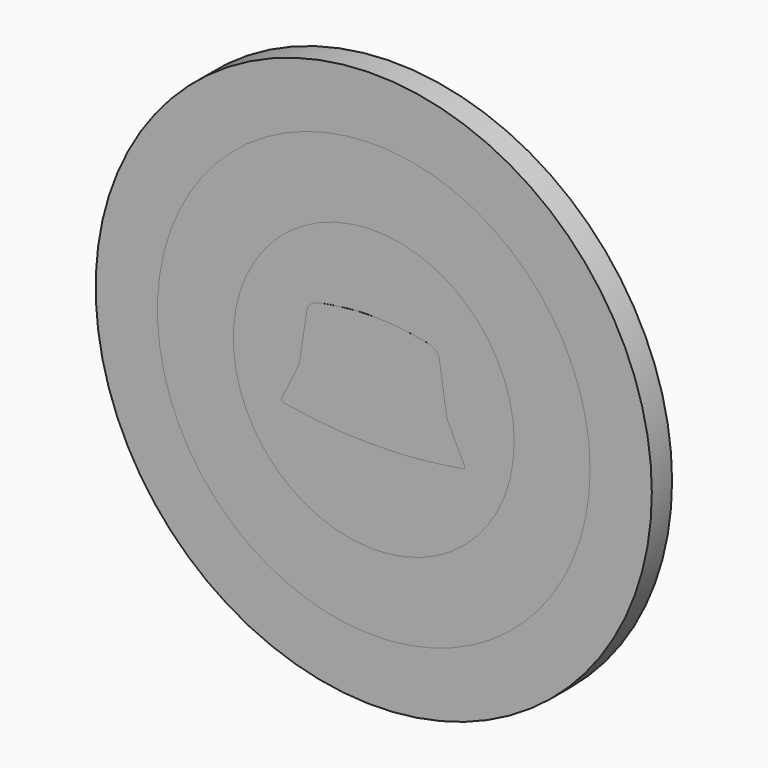
from build123d import *

# Parameters (mm, degrees)
F1_DEPTH = 5
F0_R     = 27.763995
F2_DEPTH = 5
F0_R_2   = 42.763995
F3_DEPTH = 5
F0_R_3   = 54.963995
F4_DEPTH = 5


with BuildPart() as f1:
    # F0 (on Front) → F1 (new body)
    with BuildSketch(Plane.XZ):
        with BuildLine():
            add(Edge.make_bspline(
                [(0, 12.749238871), (1.8799504391, 12.749238871), (4.6468677574, 12.621967018), (9.0016043625, 11.9592161022), (11.6822012955, 11.487029525), (13.0032659097, 10.4224192532), (13.1307793781, 9.2846127227)],
                knots=[0, 0, 0, 0, 0.2944379035, 0.5705931421, 0.7883897291, 1, 1, 1, 1], degree=3))
            add(Edge.make_bspline(
                [(0, 12.749238871), (-1.8799504391, 12.749238871), (-4.6468677574, 12.621967018), (-9.0016043625, 11.9592161022), (-11.6822012955, 11.487029525), (-13.0032659097, 10.4224192532), (-13.1307793781, 9.2846127227)],
                knots=[0, 0, 0, 0, 0.2944379035, 0.5705931421, 0.7883897291, 1, 1, 1, 1], degree=3))
            Line((-13.1307793781, 9.2846127227), (-14.6110216156, -0.3369693877))
            Line((-14.6110216156, -0.3369693877), (-18.0258862674, -7.3006520979))
            add(Edge.make_bspline(
                [(-18.0258862674, -7.3006520979), (-18.1105896685, -7.4722460504), (-18.105776428, -7.7897039819), (-17.9599132375, -7.9946665401), (-17.6592595211, -8.0481836141)],
                knots=[0, 0, 0, 0, 0.4869255089, 1, 1, 1, 1], degree=3))
            add(Edge.make_bspline(
                [(0, -9.556960276), (-2.6989814748, -9.5360273975), (-7.5647477911, -9.5064457404), (-14.5901364303, -8.531159682), (-17.6592595211, -8.0481836141)],
                knots=[0, 0, 0, 0, 0.4488909251, 0.842960095, 0.842960095, 0.842960095, 0.842960095], degree=3))
            add(Edge.make_bspline(
                [(0, -9.556960276), (2.6989814748, -9.5360273975), (7.5647477911, -9.5064457404), (14.5901364303, -8.531159682), (17.6592595211, -8.0481836141)],
                knots=[0, 0, 0, 0, 0.4488909251, 0.842960095, 0.842960095, 0.842960095, 0.842960095], degree=3))
            add(Edge.make_bspline(
                [(18.0258862674, -7.3006520979), (18.1105896685, -7.4722460504), (18.105776428, -7.7897039819), (17.9599132375, -7.9946665401), (17.6592595211, -8.0481836141)],
                knots=[0, 0, 0, 0, 0.4869255089, 1, 1, 1, 1], degree=3))
            Line((18.0258862674, -7.3006520979), (14.6110216156, -0.3369693877))
            Line((14.6110216156, -0.3369693877), (13.1307793781, 9.2846127227))
        make_face()
    extrude(amount=F1_DEPTH)


with BuildPart() as f2:
    # F0 (on Front) → F2 (new body)
    with BuildSketch(Plane.XZ):
        with Locations((0.1309880681, 0)):
            Circle(F0_R)
        with BuildLine():
            add(Edge.make_bspline(
                [(0, 12.749238871), (-1.8799504391, 12.749238871), (-4.6468677574, 12.621967018), (-9.0016043625, 11.9592161022), (-11.6822012955, 11.487029525), (-13.0032659097, 10.4224192532), (-13.1307793781, 9.2846127227)],
                knots=[0, 0, 0, 0, 0.2944379035, 0.5705931421, 0.7883897291, 1, 1, 1, 1], degree=3))
            add(Edge.make_bspline(
                [(0, 12.749238871), (1.8799504391, 12.749238871), (4.6468677574, 12.621967018), (9.0016043625, 11.9592161022), (11.6822012955, 11.487029525), (13.0032659097, 10.4224192532), (13.1307793781, 9.2846127227)],
                knots=[0, 0, 0, 0, 0.2944379035, 0.5705931421, 0.7883897291, 1, 1, 1, 1], degree=3))
            Line((13.1307793781, 9.2846127227), (14.6110216156, -0.3369693877))
            Line((14.6110216156, -0.3369693877), (18.0258862674, -7.3006520979))
            add(Edge.make_bspline(
                [(18.0258862674, -7.3006520979), (18.1105896685, -7.4722460504), (18.105776428, -7.7897039819), (17.9599132375, -7.9946665401), (17.6592595211, -8.0481836141)],
                knots=[0, 0, 0, 0, 0.4869255089, 1, 1, 1, 1], degree=3))
            add(Edge.make_bspline(
                [(0, -9.556960276), (2.6989814748, -9.5360273975), (7.5647477911, -9.5064457404), (14.5901364303, -8.531159682), (17.6592595211, -8.0481836141)],
                knots=[0, 0, 0, 0, 0.4488909251, 0.842960095, 0.842960095, 0.842960095, 0.842960095], degree=3))
            add(Edge.make_bspline(
                [(0, -9.556960276), (-2.6989814748, -9.5360273975), (-7.5647477911, -9.5064457404), (-14.5901364303, -8.531159682), (-17.6592595211, -8.0481836141)],
                knots=[0, 0, 0, 0, 0.4488909251, 0.842960095, 0.842960095, 0.842960095, 0.842960095], degree=3))
            add(Edge.make_bspline(
                [(-18.0258862674, -7.3006520979), (-18.1105896685, -7.4722460504), (-18.105776428, -7.7897039819), (-17.9599132375, -7.9946665401), (-17.6592595211, -8.0481836141)],
                knots=[0, 0, 0, 0, 0.4869255089, 1, 1, 1, 1], degree=3))
            Line((-18.0258862674, -7.3006520979), (-14.6110216156, -0.3369693877))
            Line((-14.6110216156, -0.3369693877), (-13.1307793781, 9.2846127227))
        make_face(mode=Mode.SUBTRACT)
    extrude(amount=F2_DEPTH)


with BuildPart() as f3:
    # F0 (on Front) → F3 (new body)
    with BuildSketch(Plane.XZ):
        with Locations((0.1309880681, 0)):
            Circle(F0_R_2)
        with Locations((0.1309880681, 0)):
            Circle(F0_R, mode=Mode.SUBTRACT)
    extrude(amount=F3_DEPTH)


with BuildPart() as f4:
    # F0 (on Front) → F4 (new body)
    with BuildSketch(Plane.XZ):
        with Locations((0.1309880681, 0)):
            Circle(F0_R_3)
        with Locations((0.1309880681, 0)):
            Circle(F0_R_2, mode=Mode.SUBTRACT)
    extrude(amount=F4_DEPTH)


solid = Compound([f1.part, f2.part, f3.part, f4.part])
